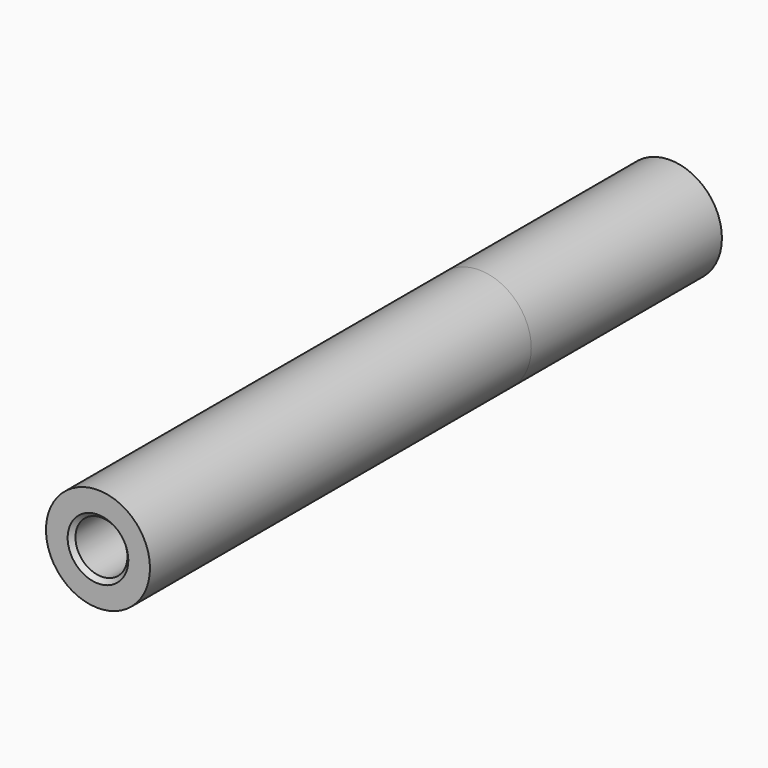
from build123d import *

# Parameters (mm, degrees)
F0_R     = 6
F0_R_2   = 3
F1_DEPTH = 55
F2_SIZE  = 0.5
F3_DEPTH = 27.5
F4_SIZE  = 0.5


with BuildPart() as f1:
    # F0 (on Front) → F1 (new body)
    with BuildSketch(Plane.XZ):
        Circle(F0_R)
        Circle(F0_R_2, mode=Mode.SUBTRACT)
    extrude(amount=F1_DEPTH)

    # F2
    f2_edges = [f1.edges().sort_by_distance(p)[0] for p in [
        (-3, -55, 0),
    ]]
    chamfer(f2_edges, length=F2_SIZE)


with BuildPart() as f3:
    # F0 (on Front) → F3 (new body)
    with BuildSketch(Plane.XZ):
        Circle(F0_R)
        Circle(F0_R_2, mode=Mode.SUBTRACT)
    extrude(amount=-F3_DEPTH)

    # F4
    f4_edges = [f3.edges().sort_by_distance(p)[0] for p in [
        (-3, 27.5, 0),
    ]]
    chamfer(f4_edges, length=F4_SIZE)


solid = Compound([f1.part, f3.part])
